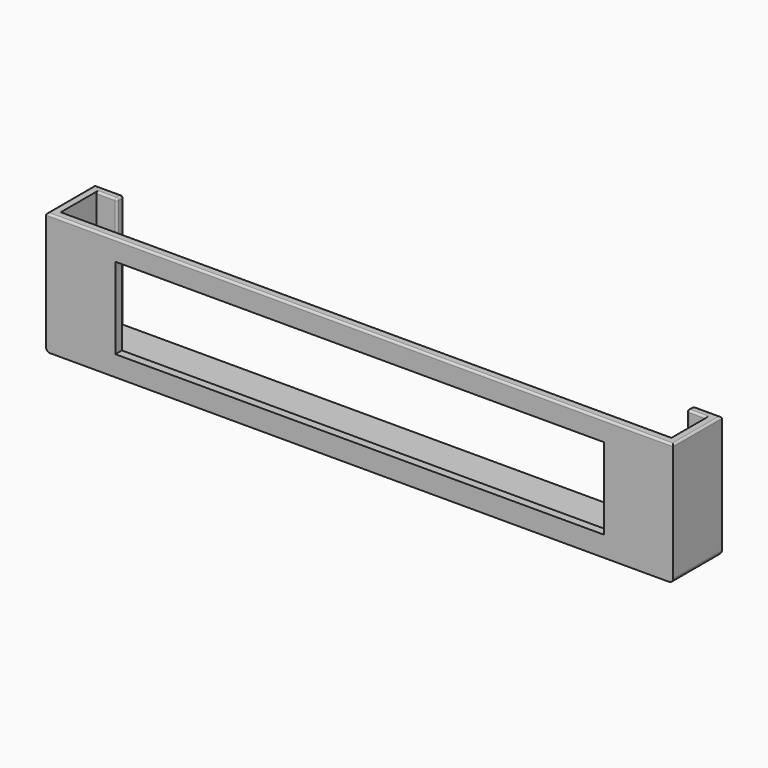
from build123d import *

# Parameters (mm, degrees)
SKETCH_W        = 154
SKETCH_H        = 15
PAD_DEPTH       = 30
SKETCH001_W     = 150
SKETCH001_H     = 11
POCKET_DEPTH    = 28
SKETCH002_W     = 140
SKETCH002_H     = 28
POCKET001_DEPTH = 2
SKETCH003_W     = 120
SKETCH003_H     = 20
POCKET002_DEPTH = 5
FILLET_R        = 0.5
FILLET001_R     = 0.5
FILLET002_R     = 0.5
FILLET003_R     = 1


with BuildPart() as part:
    # Sketch → Pad (new body)
    with BuildSketch(Plane.XY):
        Rectangle(SKETCH_W, SKETCH_H)
    extrude(amount=PAD_DEPTH)

    # Sketch001 → Pocket (cut)
    with BuildSketch(Plane.XY.offset(2)):
        Rectangle(SKETCH001_W, SKETCH001_H)
    extrude(amount=POCKET_DEPTH, mode=Mode.SUBTRACT)

    # Sketch002 (on Face7 of Pocket) → Pocket001 (cut)
    with BuildSketch(Plane.XZ.offset(-7.5)):
        with Locations((0, 16)):
            Rectangle(SKETCH002_W, SKETCH002_H)
    extrude(amount=POCKET001_DEPTH, mode=Mode.SUBTRACT)

    # Sketch003 → Pocket002 (cut)
    with BuildSketch(Plane.XZ.offset(8)):
        with Locations((0, 15)):
            Rectangle(SKETCH003_W, SKETCH003_H)
    extrude(amount=-POCKET002_DEPTH, mode=Mode.SUBTRACT)

    # Fillet
    fillet_edges = [part.edges().sort_by_distance(p)[0] for p in [
        (-70, 7.5, 16),
        (-70, 5.5, 16),
    ]]
    fillet(fillet_edges, radius=FILLET_R)

    # Fillet001
    fillet001_edges = [part.edges().sort_by_distance(p)[0] for p in [
        (70, 5.5, 16),
        (70, 7.5, 16),
    ]]
    fillet(fillet001_edges, radius=FILLET001_R)

    # Fillet002
    fillet002_edges = [part.edges().sort_by_distance(p)[0] for p in [
        (-77, 0, 30),
        (0, -7.5, 30),
        (77, 0, 30),
        (73.75, 7.5, 30),
        (-73.75, 7.5, 30),
    ]]
    fillet(fillet002_edges, radius=FILLET002_R)

    # Fillet003
    fillet003_edges = [part.edges().sort_by_distance(p)[0] for p in [
        (77, 0, 0),
        (0, 7.5, 0),
        (-77, 0, 0),
    ]]
    fillet(fillet003_edges, radius=FILLET003_R)


solid = part.part
